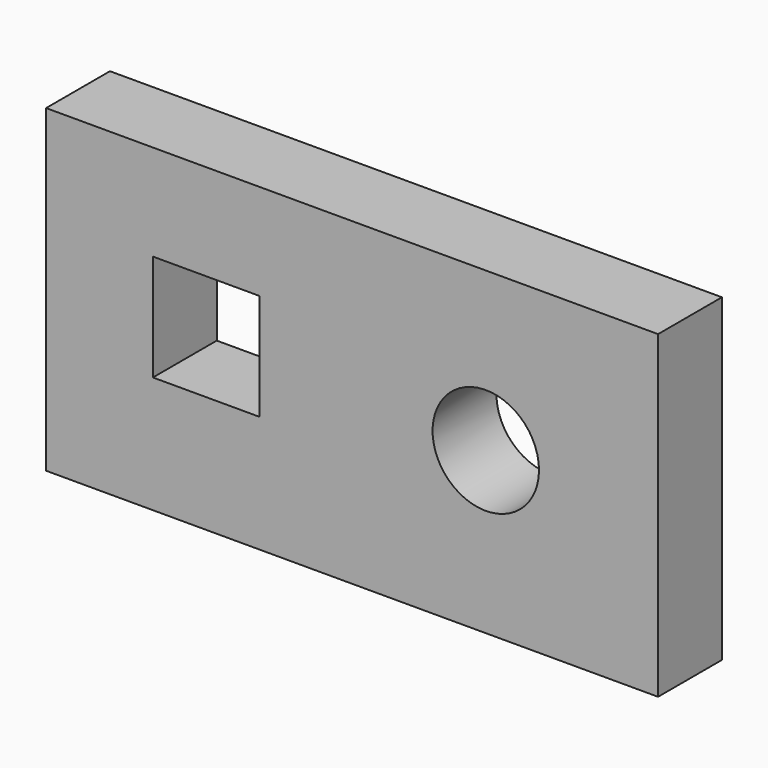
from build123d import *

# Parameters (mm, degrees)
F0_W     = 146.05
F0_H     = 76.2
F1_DEPTH = 19.05
F2_R     = 12.7
F3_DEPTH = 25.4


with BuildPart() as f1:
    # F0 (on Front) → F1 (new body)
    with BuildSketch(Plane.XZ):
        with Locations((-3.356862, -38.1)):
            Rectangle(F0_W, F0_H)
    extrude(amount=F1_DEPTH)

    # F2 (on face) → F3 (cut)
    with BuildSketch(Plane.XZ.offset(19.05)):
        Polygon((-25.484869, -22.914559), (-50.884869, -22.911528), (-50.884869, -48.311528), (-25.484869, -48.311528), align=None)
        with Locations((28.552266, -37.809022)):
            Circle(F2_R)
    extrude(amount=-F3_DEPTH, mode=Mode.SUBTRACT)


solid = f1.part
